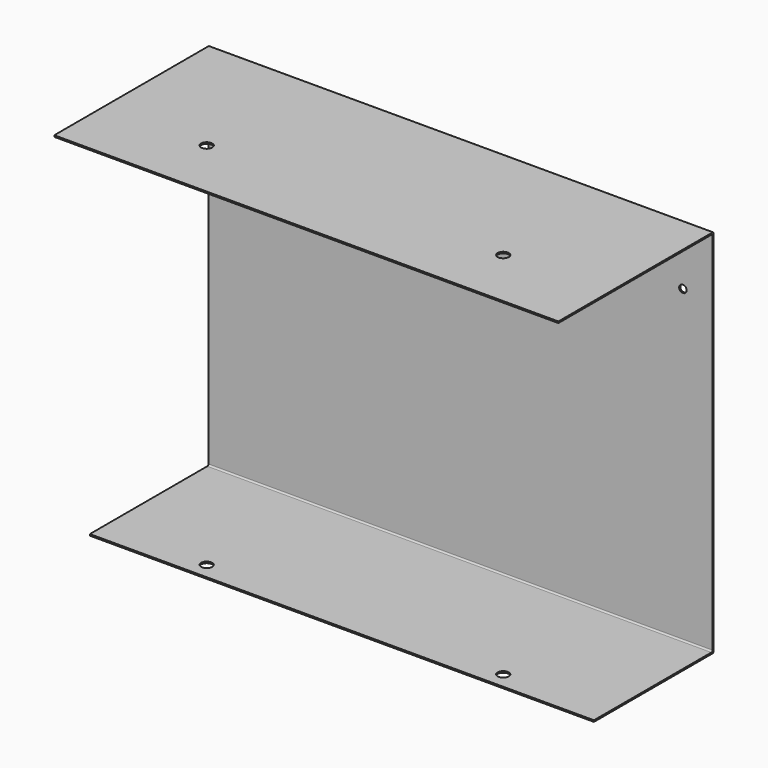
from build123d import *

# Parameters (mm, degrees)
F0_W      = 431.8
F0_H      = 317.5
F1_DEPTH  = 1.27
F2_W      = 431.8
F2_H      = 1.27
F3_DEPTH  = 165.1
F4_R      = 1.27
F5_W      = 431.8
F5_H      = 1.27
F6_DEPTH  = 127
F7_R      = 1.27
F8_R      = 3.175
F9_DEPTH  = 25.4
F10_R     = 4.7625
F11_DEPTH = 317.501


with BuildPart() as f1:
    # F0 (on Front) → F1 (new body)
    with BuildSketch(Plane.XZ):
        with Locations((14.972474, 5.196487)):
            Rectangle(F0_W, F0_H)
    extrude(amount=F1_DEPTH)

    # F2 (on face) → F3 (join)
    with BuildSketch(Plane.XZ.offset(1.27)):
        with Locations((14.972474, 163.311487)):
            Rectangle(F2_W, F2_H)
    extrude(amount=F3_DEPTH)

    # F4
    f4_edges = [f1.edges().sort_by_distance(p)[0] for p in [
        (14.972474, -1.27, 162.676487),
        (14.972474, 0, 163.946487),
    ]]
    fillet(f4_edges, radius=F4_R)

    # F5 (on face) → F6 (join)
    with BuildSketch(Plane.XZ.offset(1.27)):
        with Locations((14.972474, -152.918513)):
            Rectangle(F5_W, F5_H)
    extrude(amount=F6_DEPTH)

    # F7
    f7_edges = [f1.edges().sort_by_distance(p)[0] for p in [
        (14.972474, -1.27, -152.283513),
        (14.972474, 0, -153.553513),
    ]]
    fillet(f7_edges, radius=F7_R)

    # F8 (on face) → F9 (cut)
    with BuildSketch(Plane.XZ.offset(1.27)):
        with Locations((-175.527526, 113.146487)):
            Circle(F8_R)
        with Locations((205.472474, 113.146487)):
            Circle(F8_R)
    extrude(amount=-F9_DEPTH, mode=Mode.SUBTRACT)

    # F10 (on face) → F11 (cut, through all)
    with BuildSketch(Plane.XY.offset(163.946487)):
        with Locations((-112.027526, -114.3)):
            Circle(F10_R)
        with Locations((141.972474, -114.3)):
            Circle(F10_R)
    extrude(amount=-F11_DEPTH, mode=Mode.SUBTRACT)


solid = f1.part
